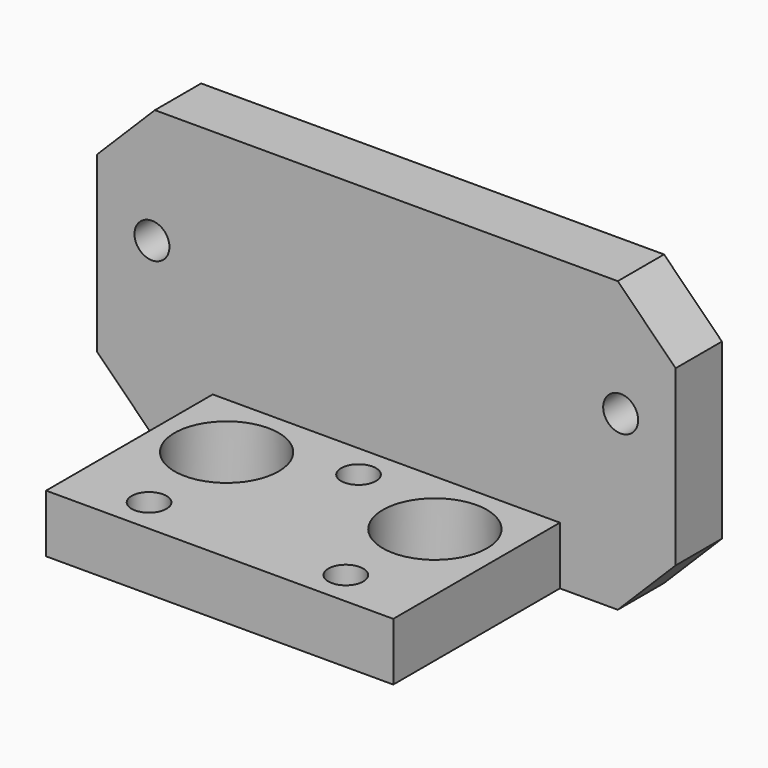
from build123d import *

# Parameters (mm, degrees)
F0_R      = 1.51
F0_R_2    = 4.5
F1_DEPTH  = 5
F2_W      = 30
F2_H      = 5
F3_DEPTH  = 20
F4_W      = 5
F4_H      = 25
F5_DEPTH  = 10
F6_W      = 5
F6_H      = 25
F7_DEPTH  = 10
F9_DEPTH  = 5.001
F10_R     = 1.51
F11_DEPTH = 5.001


with BuildPart() as f1:
    # F0 (on Top) → F1 (new body)
    with BuildSketch(Plane.XY):
        Polygon((0, 18), (0, 0), (30, 0), (30, 18), (30, 23), (29.759806, 23), (0, 23), align=None)
        with Locations((6.5, 3)):
            Circle(F0_R, mode=Mode.SUBTRACT)
        with Locations((23.5, 3)):
            Circle(F0_R, mode=Mode.SUBTRACT)
        with Locations((6, 12)):
            Circle(F0_R_2, mode=Mode.SUBTRACT)
        with Locations((15, 15)):
            Circle(F0_R, mode=Mode.SUBTRACT)
        with Locations((24, 12)):
            Circle(F0_R_2, mode=Mode.SUBTRACT)
        Polygon((0, 18), (0, 0), (30, 0), (30, 18), (30, 23), (29.759806, 23), (0, 23), align=None)
        with Locations((6.5, 3)):
            Circle(F0_R, mode=Mode.SUBTRACT)
        with Locations((23.5, 3)):
            Circle(F0_R, mode=Mode.SUBTRACT)
        with Locations((6, 12)):
            Circle(F0_R_2, mode=Mode.SUBTRACT)
        with Locations((15, 15)):
            Circle(F0_R, mode=Mode.SUBTRACT)
        with Locations((24, 12)):
            Circle(F0_R_2, mode=Mode.SUBTRACT)
    extrude(amount=F1_DEPTH)

    # F2 (on face) → F3 (join)
    with BuildSketch(Plane.XY.offset(5)):
        with Locations((15, 20.5)):
            Rectangle(F2_W, F2_H)
    extrude(amount=F3_DEPTH)

    # F4 (on face) → F5 (join)
    with BuildSketch(Plane(origin=(0, 0, 0), x_dir=(0, -1, 0), z_dir=(-1, 0, 0))):
        with Locations((-20.5, 12.5)):
            Rectangle(F4_W, F4_H)
    extrude(amount=F5_DEPTH)

    # F6 (on face) → F7 (join)
    with BuildSketch(Plane.YZ.offset(30)):
        with Locations((20.5, 12.5)):
            Rectangle(F6_W, F6_H)
    extrude(amount=F7_DEPTH)

    # F8 (on face) → F9 (cut, through all)
    with BuildSketch(Plane.XZ.offset(-18)):
        Polygon((-5, 25), (-10, 25), (-10, 20), align=None)
        Polygon((-5, 0), (-10, 5), (-10, 0), align=None)
        Polygon((40, 5), (35, 0), (40, 0), align=None)
        Polygon((40, 25), (35, 25), (40, 20), align=None)
    extrude(amount=-F9_DEPTH, mode=Mode.SUBTRACT)

    # F10 (on face) → F11 (cut, through all)
    with BuildSketch(Plane.XZ.offset(-18)):
        with Locations((-5.25, 15)):
            Circle(F10_R)
        with Locations((35.25, 15)):
            Circle(F10_R)
    extrude(amount=-F11_DEPTH, mode=Mode.SUBTRACT)


solid = f1.part
